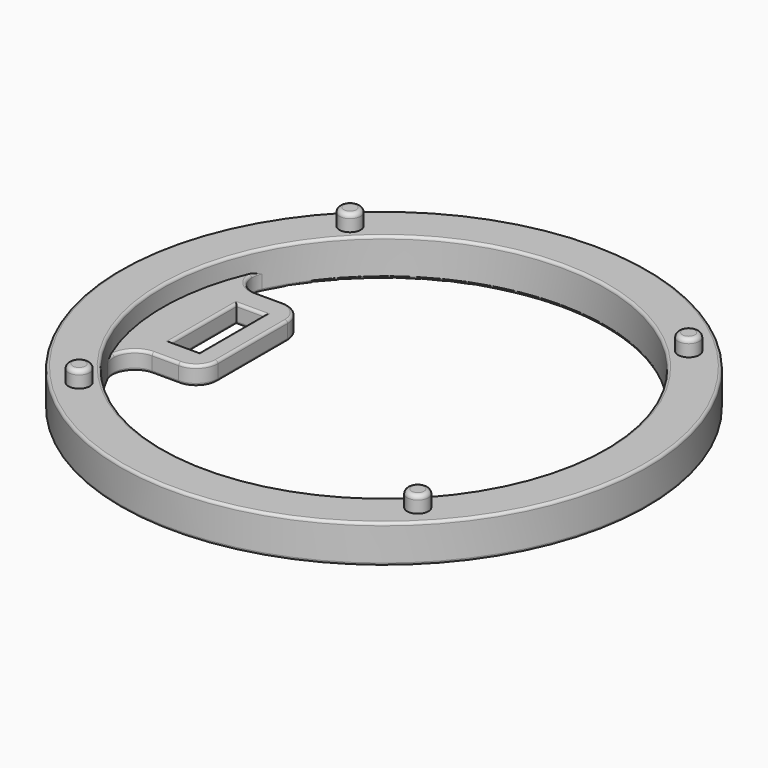
from build123d import *

# Parameters (mm, degrees)
F0_R     = 48.5
F0_R_2   = 1.95
F0_R_3   = 40.65
F1_DEPTH = 7
F2_DEPTH = 3
F3_R     = 0.8
F4_W     = 15
F4_H     = 5.2
F5_DEPTH = 3.4
F6_R     = 4
F7_R     = 0.5
F8_R     = 0.5
F9_ANGLE = 180


with BuildPart() as f1:
    # F0 (on Top) → F1 (new body)
    with BuildSketch(Plane.XY):
        Circle(F0_R)
        with Locations((-31.1126983722, -31.1126983722)):
            Circle(F0_R_2, mode=Mode.SUBTRACT)
        with Locations((31.1126983722, -31.1126983722)):
            Circle(F0_R_2, mode=Mode.SUBTRACT)
        with Locations((-31.1126983722, 31.1126983722)):
            Circle(F0_R_2, mode=Mode.SUBTRACT)
        Circle(F0_R_3, mode=Mode.SUBTRACT)
        with Locations((31.1126983722, 31.1126983722)):
            Circle(F0_R_2, mode=Mode.SUBTRACT)
        with Locations((-31.1126983722, 31.1126983722)):
            Circle(F0_R_2)
        with Locations((31.1126983722, 31.1126983722)):
            Circle(F0_R_2)
        with Locations((31.1126983722, -31.1126983722)):
            Circle(F0_R_2)
        with Locations((-31.1126983722, -31.1126983722)):
            Circle(F0_R_2)
    extrude(amount=F1_DEPTH)

    # F0 (on Top) → F2 (join)
    with BuildSketch(Plane.XY):
        with Locations((31.1126983722, 31.1126983722)):
            Circle(F0_R_2)
        with Locations((-31.1126983722, 31.1126983722)):
            Circle(F0_R_2)
        with Locations((-31.1126983722, -31.1126983722)):
            Circle(F0_R_2)
        with Locations((31.1126983722, -31.1126983722)):
            Circle(F0_R_2)
    extrude(amount=-F2_DEPTH)

    # F3
    f3_edges = [f1.edges().sort_by_distance(p)[0] for p in [
        (29.162698, 31.112698, -3),
        (-33.062698, 31.112698, -3),
        (-33.062698, -31.112698, -3),
        (29.162698, -31.112698, -3),
    ]]
    fillet(f3_edges, radius=F3_R)

    # F4 (on face) → F5 (join)
    with BuildSketch(Plane.XY.offset(7)):
        with BuildLine():
            Line((12, -38.8384152612), (12, -24.1))
            Line((12, -24.1), (-12, -24.1))
            Line((-12, -24.1), (-12, -38.8384152612))
            ThreePointArc((-12, -38.8384152612), (0, -40.65), (12, -38.8384152612))
        make_face()
        with Locations((0, -30.5)):
            Rectangle(F4_W, F4_H, mode=Mode.SUBTRACT)
        with BuildLine():
            Line((12, -42.1), (12, -38.8384152612))
            ThreePointArc((12, -38.8384152612), (0, -40.65), (-12, -38.8384152612))
            Line((-12, -38.8384152612), (-12, -42.1))
            Line((-12, -42.1), (12, -42.1))
        make_face()
    extrude(amount=-F5_DEPTH)

    # F6
    f6_edges = [f1.edges().sort_by_distance(p)[0] for p in [
        (-12, -24.1, 5.3),
        (12, -24.1, 5.3),
        (12, -38.838415, 5.3),
        (-12, -38.838415, 5.3),
    ]]
    fillet(f6_edges, radius=F6_R)

    # F7
    f7_edges = [f1.edges().sort_by_distance(p)[0] for p in [
        (-21.575884, 34.451469, 7),
        (-13.876912, -36.363116, 7),
        (34.451469, -21.575884, 7),
        (-12, -30.536529, 7),
        (13.876912, -36.363116, 7),
        (-10.828427, -25.271573, 7),
        (12, -30.536529, 7),
        (0, -24.1, 7),
        (10.828427, -25.271573, 7),
        (-48.5, 0, 7),
        (0, -33.1, 7),
        (-7.5, -30.5, 7),
        (0, -27.9, 7),
        (7.5, -30.5, 7),
    ]]
    fillet(f7_edges, radius=F7_R)

    # F8 (call 1 of 4: OpenCascade refuses the feature's edges together)
    f8_edges = [f1.edges().sort_by_distance(p)[0] for p in [
        (-48.5, 0, 0),
    ]]
    fillet(f8_edges, radius=F8_R)

    # F8#2 (call 2 of 4)
    f8_2_edges = [f1.edges().sort_by_distance(p)[0] for p in [
        (-40.65, 0, 0),
    ]]
    fillet(f8_2_edges, radius=F8_R)

    # F8#3 (call 3 of 4)
    f8_3_edges = [f1.edges().sort_by_distance(p)[0] for p in [
        (-7.5, -30.5, 3.6),
        (0, -27.9, 3.6),
        (7.5, -30.5, 3.6),
        (0, -33.1, 3.6),
    ]]
    fillet(f8_3_edges, radius=F8_R)

    # F8#4 (call 4 of 4)
    f8_4_edges = [f1.edges().sort_by_distance(p)[0] for p in [
        (-13.876912, -36.363116, 3.6),
        (-12, -30.536529, 3.6),
    ]]
    fillet(f8_4_edges, radius=F8_R)


with BuildPart() as f1_1:
    # F9: moved
    add(f1.part.rotate(Axis((0, 0, 0), (0.7071067812, 0.7071067812, 0)), F9_ANGLE))


solid = f1_1.part
